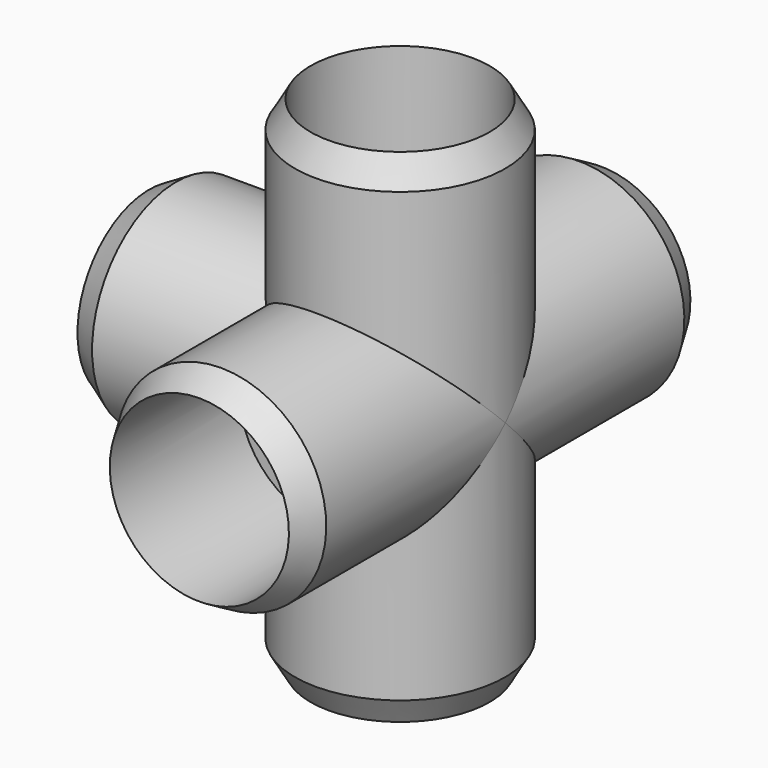
from build123d import *


with BuildPart() as f5:
    # F0 (on Right) → F5 (revolve)
    with BuildSketch(Plane.YZ):
        with BuildLine():
            Line((-52.6758568757, 24.765), (-59.055, 21.082))
            Line((-59.055, 21.082), (-20.955, 21.082))
            Line((-20.955, 21.082), (-20.955, 15.875))
            Line((-20.955, 15.875), (0, 15.875))
            ThreePointArc((0, 15.875), (11.2253201513, 11.2253201513), (15.875, 0))
            Line((15.875, 0), (24.765, 0))
            ThreePointArc((24.765, 0), (17.5114994361, 17.5114994361), (0, 24.765))
            Line((0, 24.765), (-52.6758568757, 24.765))
        make_face()
        with BuildLine():
            Line((-20.955, 21.082), (-59.055, 21.082))
            Line((-59.055, 21.082), (-59.055, 0))
            Line((-59.055, 0), (0, 0))
            Line((0, 0), (10.5189766587, 0))
            Line((10.5189766587, 0), (15.875, 0))
            ThreePointArc((15.875, 0), (11.2253201513, 11.2253201513), (0, 15.875))
            Line((0, 15.875), (-20.955, 15.875))
            Line((-20.955, 15.875), (-20.955, 21.082))
        make_face()
    revolve(axis=Axis((0, -21.59, 0), (0, 1, 0)))

    # F1 (on Right) → F6 (revolve)
    with BuildSketch(Plane.YZ):
        with BuildLine():
            Line((-24.765, -52.6758568757), (-21.082, -59.055))
            Line((-21.082, -59.055), (-21.082, -20.955))
            Line((-21.082, -20.955), (-15.875, -20.955))
            Line((-15.875, -20.955), (-15.875, 0))
            ThreePointArc((-15.875, 0), (-11.2253201513, 11.2253201513), (0, 15.875))
            Line((0, 15.875), (0, 24.765))
            ThreePointArc((0, 24.765), (-17.5114994361, 17.5114994361), (-24.765, 0))
            Line((-24.765, 0), (-24.765, -52.6758568757))
        make_face()
        with BuildLine():
            Line((-21.082, -20.955), (-21.082, -59.055))
            Line((-21.082, -59.055), (0, -59.055))
            Line((0, -59.055), (0, 0))
            Line((0, 0), (0, 15.875))
            ThreePointArc((0, 15.875), (-11.2253201513, 11.2253201513), (-15.875, 0))
            Line((-15.875, 0), (-15.875, -20.955))
            Line((-15.875, -20.955), (-21.082, -20.955))
        make_face()
    revolve(axis=Axis((0, 0, -21.59), (0, 0, 1)))

    # F2 (on Right) → F7 (revolve)
    with BuildSketch(Plane.YZ):
        with BuildLine():
            Line((52.6758568757, -24.765), (59.055, -21.082))
            Line((59.055, -21.082), (20.955, -21.082))
            Line((20.955, -21.082), (20.955, -15.875))
            Line((20.955, -15.875), (0, -15.875))
            ThreePointArc((0, -15.875), (-11.2253201513, -11.2253201513), (-15.875, 0))
            Line((-15.875, 0), (-24.765, 0))
            ThreePointArc((-24.765, 0), (-17.5114994361, -17.5114994361), (0, -24.765))
            Line((0, -24.765), (52.6758568757, -24.765))
        make_face()
        with BuildLine():
            Line((20.955, -21.082), (59.055, -21.082))
            Line((59.055, -21.082), (59.055, 0))
            Line((59.055, 0), (10.5189766587, 0))
            Line((10.5189766587, 0), (0, 0))
            Line((0, 0), (-15.875, 0))
            ThreePointArc((-15.875, 0), (-11.2253201513, -11.2253201513), (0, -15.875))
            Line((0, -15.875), (20.955, -15.875))
            Line((20.955, -15.875), (20.955, -21.082))
        make_face()
    revolve(axis=Axis((0, 21.59, 0), (0, -1, 0)))

    # F3 (on Right) → F8 (revolve)
    with BuildSketch(Plane.YZ):
        with BuildLine():
            Line((24.765, 52.6758568757), (21.082, 59.055))
            Line((21.082, 59.055), (21.082, 20.955))
            Line((21.082, 20.955), (15.875, 20.955))
            Line((15.875, 20.955), (15.875, 0))
            ThreePointArc((15.875, 0), (11.2253201513, -11.2253201513), (0, -15.875))
            Line((0, -15.875), (0, -24.765))
            ThreePointArc((0, -24.765), (17.5114994361, -17.5114994361), (24.765, 0))
            Line((24.765, 0), (24.765, 52.6758568757))
        make_face()
        with BuildLine():
            Line((21.082, 20.955), (21.082, 59.055))
            Line((21.082, 59.055), (0, 59.055))
            Line((0, 59.055), (0, 9.2996467855))
            Line((0, 9.2996467855), (0, 0))
            Line((0, 0), (0, -15.875))
            ThreePointArc((0, -15.875), (11.2253201513, -11.2253201513), (15.875, 0))
            Line((15.875, 0), (15.875, 20.955))
            Line((15.875, 20.955), (21.082, 20.955))
        make_face()
    revolve(axis=Axis((0, 0, 21.59), (0, 0, -1)))

    # F4 (on Top) → F9 (revolve)
    with BuildSketch(Plane.XY):
        with BuildLine():
            Line((-52.6758568757, 24.765), (-59.055, 21.082))
            Line((-59.055, 21.082), (-20.955, 21.082))
            Line((-20.955, 21.082), (-20.955, 15.875))
            Line((-20.955, 15.875), (0, 15.875))
            ThreePointArc((0, 15.875), (11.2253201513, 11.2253201513), (15.875, 0))
            Line((15.875, 0), (24.765, 0))
            ThreePointArc((24.765, 0), (17.5114994361, 17.5114994361), (0, 24.765))
            Line((0, 24.765), (-52.6758568757, 24.765))
        make_face()
        with BuildLine():
            Line((-20.955, 21.082), (-59.055, 21.082))
            Line((-59.055, 21.082), (-59.055, 0))
            Line((-59.055, 0), (-12.5608257832, 0))
            Line((-12.5608257832, 0), (0, 0))
            Line((0, 0), (15.875, 0))
            ThreePointArc((15.875, 0), (11.2253201513, 11.2253201513), (0, 15.875))
            Line((0, 15.875), (-20.955, 15.875))
            Line((-20.955, 15.875), (-20.955, 21.082))
        make_face()
    revolve(axis=Axis((-21.59, 0, 0), (1, 0, 0)))

    # F0 (on Right) → F10 (revolve, cut)
    with BuildSketch(Plane.YZ):
        with BuildLine():
            Line((-20.955, 21.082), (-59.055, 21.082))
            Line((-59.055, 21.082), (-59.055, 0))
            Line((-59.055, 0), (0, 0))
            Line((0, 0), (10.5189766587, 0))
            Line((10.5189766587, 0), (15.875, 0))
            ThreePointArc((15.875, 0), (11.2253201513, 11.2253201513), (0, 15.875))
            Line((0, 15.875), (-20.955, 15.875))
            Line((-20.955, 15.875), (-20.955, 21.082))
        make_face()
    revolve(axis=Axis((0, -21.59, 0), (0, 1, 0)), mode=Mode.SUBTRACT)

    # F1 (on Right) → F11 (revolve, cut)
    with BuildSketch(Plane.YZ):
        with BuildLine():
            Line((-21.082, -20.955), (-21.082, -59.055))
            Line((-21.082, -59.055), (0, -59.055))
            Line((0, -59.055), (0, 0))
            Line((0, 0), (0, 15.875))
            ThreePointArc((0, 15.875), (-11.2253201513, 11.2253201513), (-15.875, 0))
            Line((-15.875, 0), (-15.875, -20.955))
            Line((-15.875, -20.955), (-21.082, -20.955))
        make_face()
    revolve(axis=Axis((0, 0, -21.59), (0, 0, 1)), mode=Mode.SUBTRACT)

    # F2 (on Right) → F12 (revolve, cut)
    with BuildSketch(Plane.YZ):
        with BuildLine():
            Line((20.955, -21.082), (59.055, -21.082))
            Line((59.055, -21.082), (59.055, 0))
            Line((59.055, 0), (10.5189766587, 0))
            Line((10.5189766587, 0), (0, 0))
            Line((0, 0), (-15.875, 0))
            ThreePointArc((-15.875, 0), (-11.2253201513, -11.2253201513), (0, -15.875))
            Line((0, -15.875), (20.955, -15.875))
            Line((20.955, -15.875), (20.955, -21.082))
        make_face()
    revolve(axis=Axis((0, 21.59, 0), (0, -1, 0)), mode=Mode.SUBTRACT)

    # F3 (on Right) → F13 (revolve, cut)
    with BuildSketch(Plane.YZ):
        with BuildLine():
            Line((21.082, 20.955), (21.082, 59.055))
            Line((21.082, 59.055), (0, 59.055))
            Line((0, 59.055), (0, 9.2996467855))
            Line((0, 9.2996467855), (0, 0))
            Line((0, 0), (0, -15.875))
            ThreePointArc((0, -15.875), (11.2253201513, -11.2253201513), (15.875, 0))
            Line((15.875, 0), (15.875, 20.955))
            Line((15.875, 20.955), (21.082, 20.955))
        make_face()
    revolve(axis=Axis((0, 0, 21.59), (0, 0, -1)), mode=Mode.SUBTRACT)

    # F4 (on Top) → F14 (revolve, cut)
    with BuildSketch(Plane.XY):
        with BuildLine():
            Line((-20.955, 21.082), (-59.055, 21.082))
            Line((-59.055, 21.082), (-59.055, 0))
            Line((-59.055, 0), (-12.5608257832, 0))
            Line((-12.5608257832, 0), (0, 0))
            Line((0, 0), (15.875, 0))
            ThreePointArc((15.875, 0), (11.2253201513, 11.2253201513), (0, 15.875))
            Line((0, 15.875), (-20.955, 15.875))
            Line((-20.955, 15.875), (-20.955, 21.082))
        make_face()
    revolve(axis=Axis((-21.59, 0, 0), (1, 0, 0)), mode=Mode.SUBTRACT)


solid = f5.part
